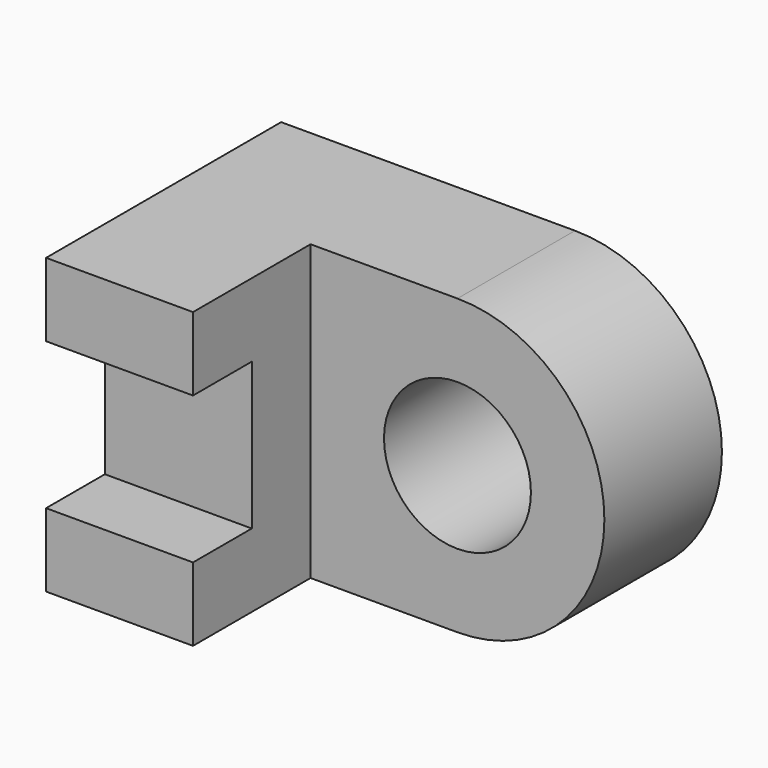
from build123d import *

# Parameters (mm, degrees)
F0_W     = 12.7
F0_H     = 25.4
F1_DEPTH = 12.7
F2_W     = 12.7
F2_H     = 12.7
F3_DEPTH = 6.35
F4_R     = 6.35
F5_DEPTH = 25.401
F6_W     = 12.7
F6_H     = 25.4
F7_DEPTH = 12.7
F9_DEPTH = 12.7


with BuildPart() as f1:
    # F0 (on Front) → F1 (new body, symmetric)
    with BuildSketch(Plane.XZ):
        with Locations((-6.35, 12.7)):
            Rectangle(F0_W, F0_H)
        with Locations((6.35, 12.7)):
            Rectangle(F0_W, F0_H)
        with BuildLine():
            Line((12.7, 25.4), (12.7, 0))
            ThreePointArc((12.7, 0), (25.4, 12.7), (12.7, 25.4))
        make_face()
    extrude(amount=F1_DEPTH, both=True)

    # F2 (on face) → F3 (cut, symmetric)
    with BuildSketch(Plane.XZ.offset(12.7)):
        with Locations((-6.35, 12.7)):
            Rectangle(F2_W, F2_H)
    extrude(amount=F3_DEPTH, both=True, mode=Mode.SUBTRACT)

    # F4 (on face) → F5 (cut, through all)
    with BuildSketch(Plane.XZ.offset(12.7)):
        with Locations((12.7, 12.7)):
            Circle(F4_R)
    extrude(amount=-F5_DEPTH, mode=Mode.SUBTRACT)

    # F6 (on face) → F7 (cut)
    with BuildSketch(Plane.XZ.offset(12.7)):
        with Locations((6.35, 12.7)):
            Rectangle(F6_W, F6_H)
    extrude(amount=-F7_DEPTH, mode=Mode.SUBTRACT)

    # F8 (on face) → F9 (cut)
    with BuildSketch(Plane.XZ.offset(12.7)):
        with BuildLine():
            Line((12.7, 6.35), (12.7, 0))
            ThreePointArc((12.7, 0), (25.4, 12.7), (12.7, 25.4))
            Line((12.7, 25.4), (12.7, 19.05))
            ThreePointArc((12.7, 19.05), (17.1901280605, 17.1901280605), (19.05, 12.7))
            ThreePointArc((19.05, 12.7), (17.1901280605, 8.2098719395), (12.7, 6.35))
        make_face()
    extrude(amount=-F9_DEPTH, mode=Mode.SUBTRACT)


solid = f1.part
